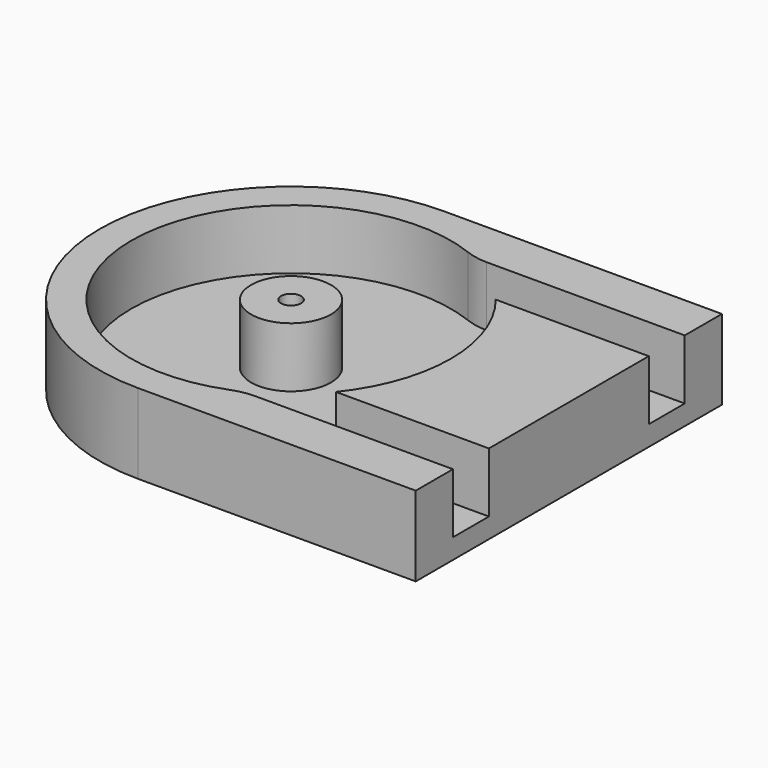
from build123d import *

# Parameters (mm, degrees)
F1_DEPTH = 25.4
F2_R     = 12.7
F3_DEPTH = 19.05
F4_R     = 19.05
F2_R_2   = 3.175
F5_DEPTH = 25.4
F6_R     = 6.35
F7_DEPTH = 6.35


with BuildPart() as f1:
    # F0 (on Top) → F1 (new body)
    with BuildSketch(Plane.XY):
        with BuildLine():
            Line((88.281516, 60.815624), (0, 60.815624))
            ThreePointArc((0, 60.815624), (-60.815624, 0), (0, -60.815624))
            Line((0, -60.815624), (88.281516, -60.815624))
            Line((88.281516, -60.815624), (88.281516, 60.815624))
        make_face()
    extrude(amount=F1_DEPTH)

    # F2 (on face) → F3 (cut)
    with BuildSketch(Plane.XY.offset(25.4)):
        with BuildLine():
            Line((88.281516, 46.0375), (21.475302, 46.0375))
            ThreePointArc((21.475302, 46.0375), (-50.8, 0), (21.475302, -46.0375))
            Line((21.475302, -46.0375), (88.281516, -46.0375))
            Line((88.281516, -46.0375), (88.281516, -31.75))
            Line((88.281516, -31.75), (39.655737, -31.75))
            ThreePointArc((39.655737, -31.75), (50.8, 0), (39.655737, 31.75))
            Line((39.655737, 31.75), (88.281516, 31.75))
            Line((88.281516, 31.75), (88.281516, 46.0375))
        make_face()
        Circle(F2_R, mode=Mode.SUBTRACT)
    extrude(amount=-F3_DEPTH, mode=Mode.SUBTRACT)

    # F4
    f4_edges = [f1.edges().sort_by_distance(p)[0] for p in [
        (21.475302, 46.0375, 15.875),
        (21.475302, -46.0375, 15.875),
    ]]
    fillet(f4_edges, radius=F4_R)

    # F2 (on face) → F5 (cut)
    with BuildSketch(Plane.XY.offset(25.4)):
        Circle(F2_R_2)
    extrude(amount=-F5_DEPTH, mode=Mode.SUBTRACT)

    # F6 (on face) → F7 (cut)
    with BuildSketch(Plane(origin=(0, 0, 0), x_dir=(1, 0, 0), z_dir=(0, 0, -1))):
        Circle(F6_R)
    extrude(amount=-F7_DEPTH, mode=Mode.SUBTRACT)


solid = f1.part
